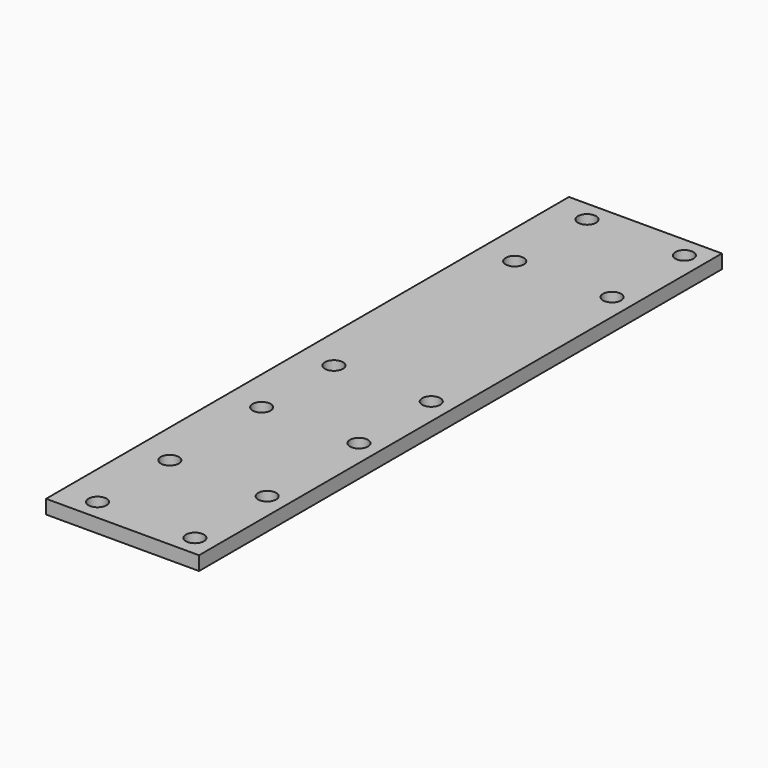
from build123d import *

# Parameters (mm, degrees)
F0_W     = 44
F0_H     = 188
F0_R     = 2.6
F1_DEPTH = 4


with BuildPart() as f1:
    # F0 (on Top) → F1 (new body)
    with BuildSketch(Plane.XY):
        with Locations((22, 94)):
            Rectangle(F0_W, F0_H)
        with Locations((10, 6)):
            Circle(F0_R, mode=Mode.SUBTRACT)
        with Locations((10, 32)):
            Circle(F0_R, mode=Mode.SUBTRACT)
        with Locations((10, 65)):
            Circle(F0_R, mode=Mode.SUBTRACT)
        with Locations((10, 91)):
            Circle(F0_R, mode=Mode.SUBTRACT)
        with Locations((38, 6)):
            Circle(F0_R, mode=Mode.SUBTRACT)
        with Locations((38, 32)):
            Circle(F0_R, mode=Mode.SUBTRACT)
        with Locations((38, 65)):
            Circle(F0_R, mode=Mode.SUBTRACT)
        with Locations((38, 91)):
            Circle(F0_R, mode=Mode.SUBTRACT)
        with Locations((10, 156)):
            Circle(F0_R, mode=Mode.SUBTRACT)
        with Locations((10, 182)):
            Circle(F0_R, mode=Mode.SUBTRACT)
        with Locations((38, 156)):
            Circle(F0_R, mode=Mode.SUBTRACT)
        with Locations((38, 182)):
            Circle(F0_R, mode=Mode.SUBTRACT)
    extrude(amount=F1_DEPTH)


solid = f1.part
